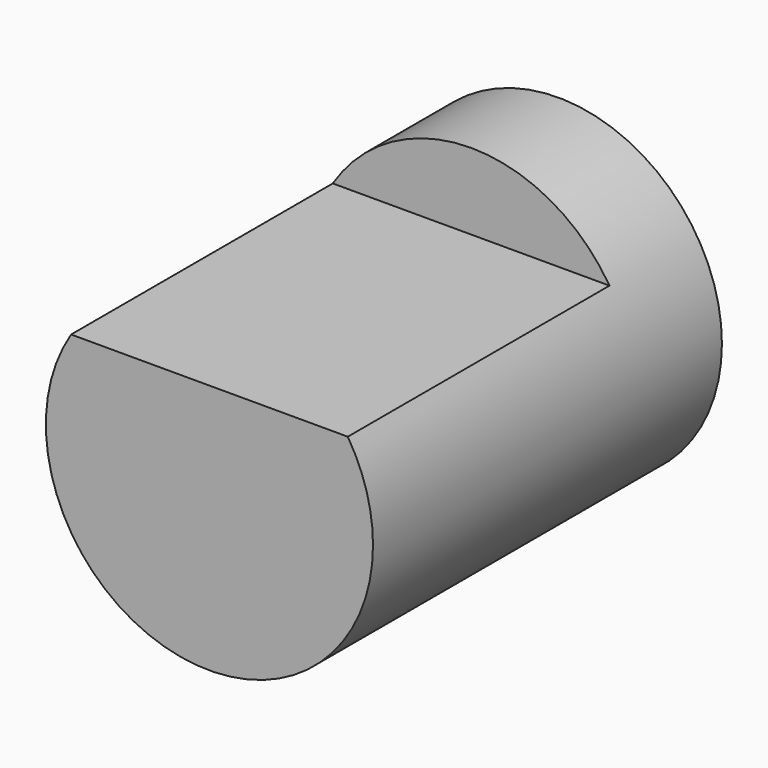
from build123d import *

# Parameters (mm, degrees)
F0_R     = 30
F1_DEPTH = 40
F3_DEPTH = 60


with BuildPart() as f1:
    # F0 (on Front) → F1 (new body, symmetric)
    with BuildSketch(Plane.XZ):
        Circle(F0_R)
    extrude(amount=F1_DEPTH, both=True)

    # F2 (on face) → F3 (cut)
    with BuildSketch(Plane.XZ.offset(40)):
        with BuildLine():
            Line((-25.377155, 16), (25.377155, 16))
            ThreePointArc((25.377155, 16), (0, 30), (-25.377155, 16))
        make_face()
    extrude(amount=-F3_DEPTH, mode=Mode.SUBTRACT)


solid = f1.part
